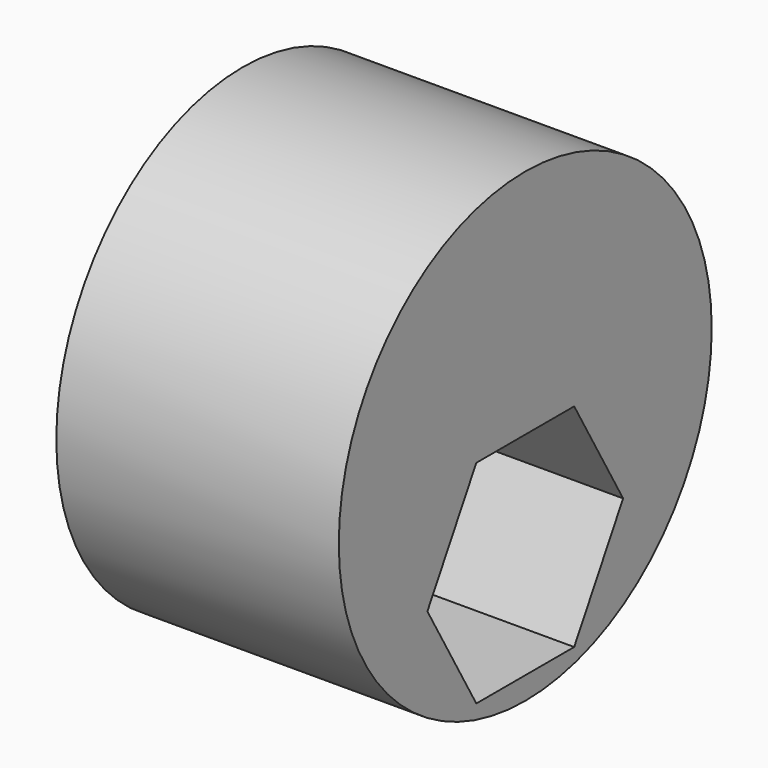
from build123d import *

# Parameters (mm, degrees)
F0_R     = 20.955
F1_DEPTH = 25.4
F3_DEPTH = 25.4


with BuildPart() as f1:
    # F0 (on Right) → F1 (new body)
    with BuildSketch(Plane.YZ):
        Circle(F0_R)
    extrude(amount=F1_DEPTH)

    # F2 (on face) → F3 (cut)
    with BuildSketch(Plane.YZ.offset(25.4)):
        Polygon((0, -18.923), (5.499261, -18.923), (10.998523, -9.398), (5.499261, 0.127), (-5.499261, 0.127), (-10.998523, -9.398), (-5.499261, -18.923), align=None)
    extrude(amount=-F3_DEPTH, mode=Mode.SUBTRACT)


solid = f1.part
